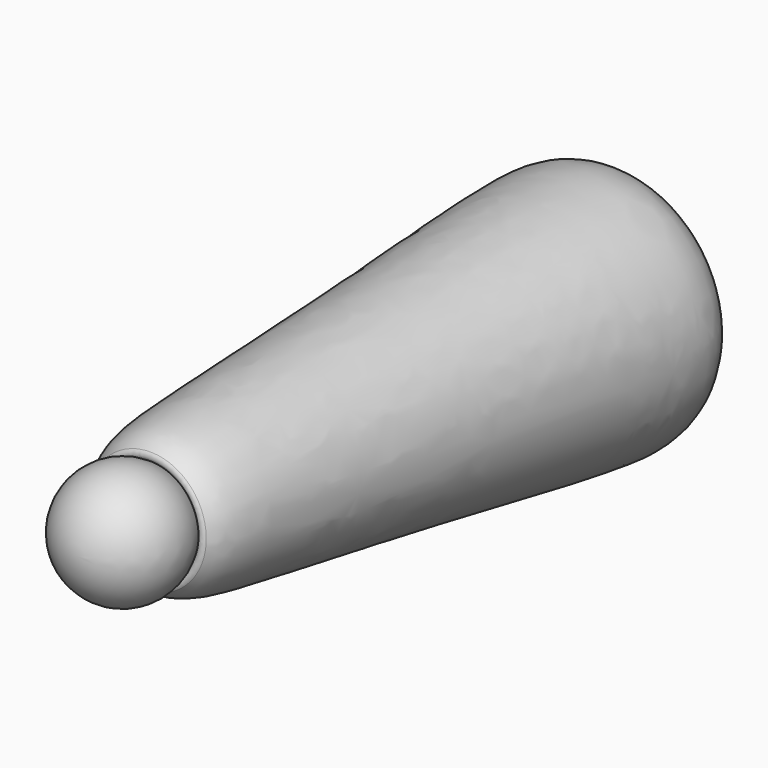
from build123d import *

# Parameters (mm, degrees)
FILLET075_R             = 6
FILLET076_R             = 3
BODY046_PLACEMENT_ANGLE = 4


with BuildPart() as part:
    # Sketch153 → Revolution079 (revolve)
    with BuildSketch(Plane.XY):
        with BuildLine():
            Line((0, -29.245996), (0, -395.969613))
            add(Edge.make_bspline(
                [(0, -29.245996), (71.97521, -29.245996), (74.761139, -71.14093), (60.18763, -188.319479), (45.659971, -358.12794), (39.993144, -395.969613), (0, -395.969613)],
                knots=[0, 0, 0, 0, 0.25, 0.5, 0.75, 1, 1, 1, 1], degree=3))
        make_face()
    revolve(axis=Axis((0, 0, 0), (0, 1, 0)))

    # Sketch154 → Groove073 (revolve, cut)
    with BuildSketch(Plane.XY):
        with BuildLine():
            Line((0, 60), (0, -60))
            ThreePointArc((0, -60), (60, 0), (0, 60))
        make_face()
    revolve(axis=Axis((0, 0, 0), (0, 1, 0)), mode=Mode.SUBTRACT)

    # Fillet075
    fillet075_edges = [part.edges().sort_by_distance(p)[0] for p in [
        (-48.746872, -34.982031, 0),
    ]]
    fillet(fillet075_edges, radius=FILLET075_R)

    # Sketch155 → Groove074 (revolve, cut)
    with BuildSketch(Plane.XY):
        with BuildLine():
            Line((0, -368), (0, -438))
            ThreePointArc((0, -438), (35, -403), (0, -368))
        make_face()
    revolve(axis=Axis((0, 0, 0), (0, 1, 0)), mode=Mode.SUBTRACT)

    # Fillet076
    fillet076_edges = [part.edges().sort_by_distance(p)[0] for p in [
        (-31.536984, -387.820454, 0),
    ]]
    fillet(fillet076_edges, radius=FILLET076_R)

    # Sketch155 → Revolution080 (revolve)
    with BuildSketch(Plane.XY):
        with BuildLine():
            Line((0, -368), (0, -438))
            ThreePointArc((0, -438), (35, -403), (0, -368))
        make_face()
    revolve(axis=Axis((0, 0, 0), (0, 1, 0)))


with BuildPart() as part_1:
    # Body046 placement: moved
    add(part.part.moved(Location((-75, 899.018312, 0.388141))).rotate(Axis((-75, 899.018312, 0.388141), (-1, 0, 0)), BODY046_PLACEMENT_ANGLE))


solid = part_1.part
